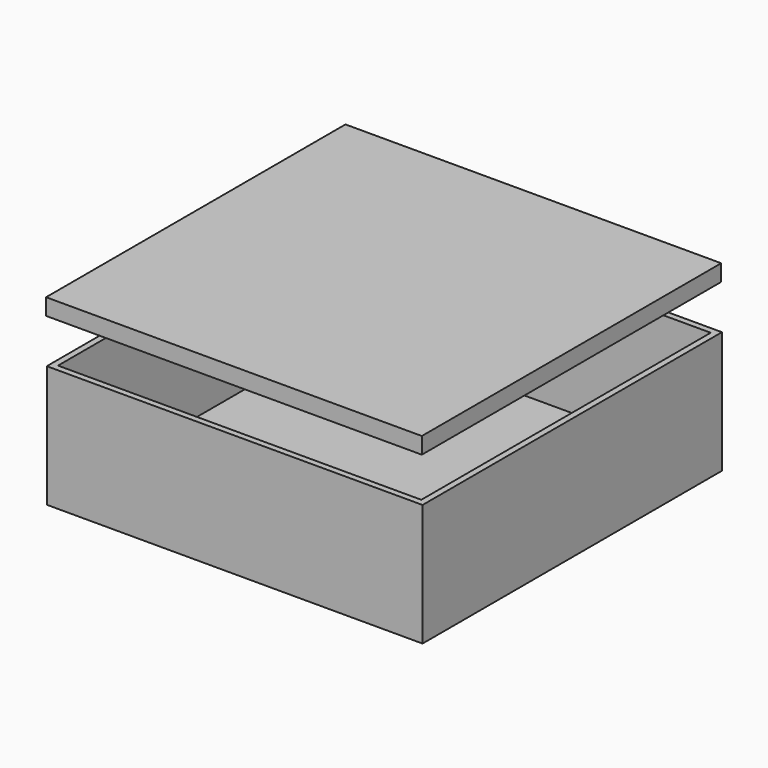
from build123d import *

# Parameters (mm, degrees)
F0_W     = 153.0245915055
F0_H     = 6.7039355636
F1_DEPTH = 152.4
F0_H_2   = 49.6965572238
F2_T     = -2.54
F3_T     = -2.54


with BuildPart() as f1:
    # F0 (on Front) → F1 (new body)
    with BuildSketch(Plane.XZ):
        with Locations((-0.1457370818, 21.2777052075)):
            Rectangle(F0_W, F0_H)
    extrude(amount=F1_DEPTH)

    # F2
    f2_openings = [f1.faces().sort_by_distance(p)[0] for p in [
        (-0.145737, -76.2, 17.925737),
    ]]
    offset(amount=F2_T, openings=f2_openings)


with BuildPart() as f1b:
    # F0 (on Front) → F1, piece 2 (new body)
    with BuildSketch(Plane.XZ):
        with Locations((0.1457370818, -24.8482786119)):
            Rectangle(F0_W, F0_H_2)
    extrude(amount=F1_DEPTH)

    # F3
    f3_openings = [f1b.faces().sort_by_distance(p)[0] for p in [
        (0.145737, -76.2, 0),
    ]]
    offset(amount=F3_T, openings=f3_openings)


solid = Compound([f1.part, f1b.part])
